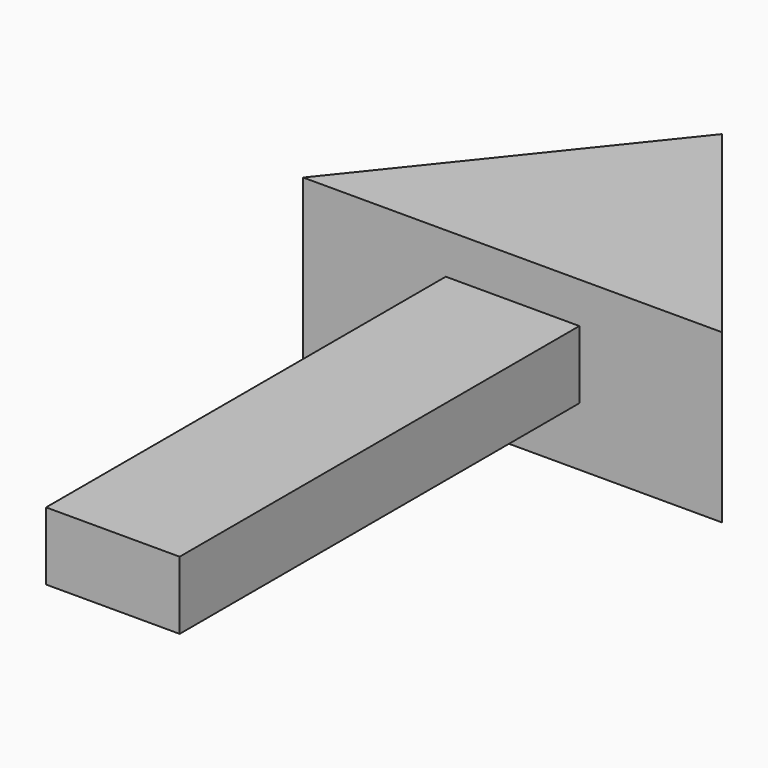
from build123d import *

# Parameters (mm, degrees)
F1_DEPTH = 25.4
F2_W     = 75.767048
F2_H     = 10.304318
F3_DEPTH = 10.12838


with BuildPart() as f1:
    # F0 (on Top) → F1 (new body)
    with BuildSketch(Plane.XY):
        Polygon((31.75, 0), (0, 39.655737), (-31.75, 0), align=None)
    extrude(amount=F1_DEPTH)

    # F2 (on Right) → F3 (join, symmetric)
    with BuildSketch(Plane.YZ):
        with Locations((-37.883524, 14.042159)):
            Rectangle(F2_W, F2_H)
    extrude(amount=F3_DEPTH, both=True)


solid = f1.part
